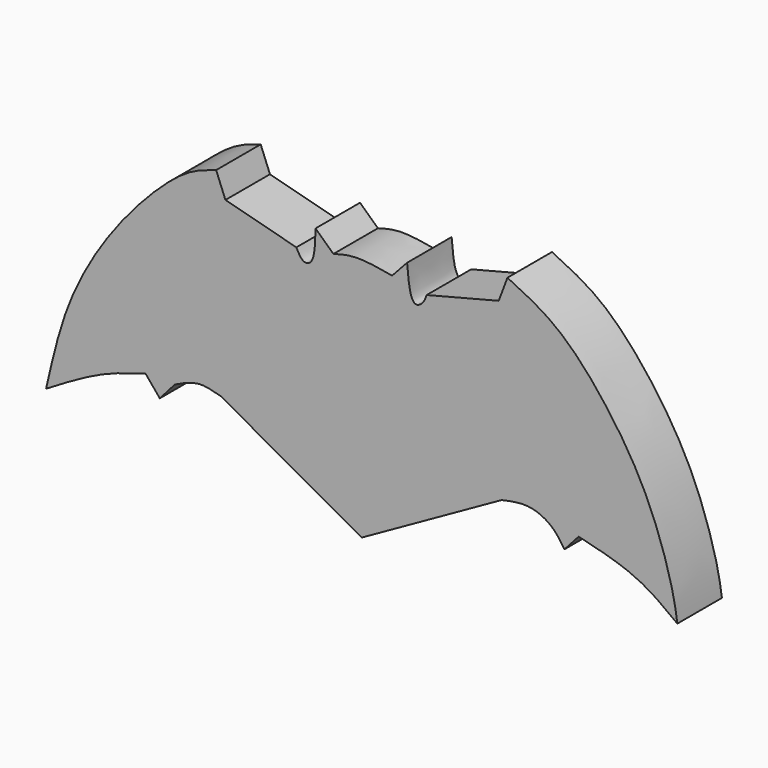
from build123d import *

# Parameters (mm, degrees)
F1_DEPTH = 25.4


with BuildPart() as f1:
    # F0 (on Front) → F1 (new body)
    with BuildSketch(Plane.XZ):
        with BuildLine():
            Line((-20.815545693, 49.3595898151), (-53.1777627766, 57.8688681126))
            Line((-53.1777627766, 57.8688681126), (-57.4047081172, 68.4945508838))
            add(Edge.make_bspline(
                [(-57.4047081172, 68.4945508838), (-61.6079530117, 67.2229645301), (-71.6578912609, 64.1826076978), (-92.1792885725, 44.7851508292), (-110.301965531, 21.8793904443), (-126.7145139576, -8.0894390434), (-132.1943043373, -32.1933513963), (-135.01124084, -44.5841886103)],
                knots=[0, 0, 0, 0, 0.1425301918, 0.3407890005, 0.5481724762, 0.7677339175, 1, 1, 1, 1], degree=3))
            add(Edge.make_bspline(
                [(-89.5904302597, -23.784969002), (-96.1833719104, -25.6691557455), (-110.4590157288, -29.7489702293), (-126.421002158, -39.3936991042), (-135.01124084, -44.5841886103)],
                knots=[0, 0, 0, 0, 0.4618314757, 1, 1, 1, 1], degree=3))
            Line((-89.5904302597, -23.784969002), (-83.1309109926, -31.5743908286))
            Line((-83.1309109926, -31.5743908286), (-76.2914195657, -23.784969002))
            add(Edge.make_bspline(
                [(-55.202987045, -21.6951239854), (-58.5396177202, -20.7007646687), (-65.440726562, -18.6441445208), (-72.5957780051, -22.0340536824), (-76.2914195657, -23.784969002)],
                knots=[0, 0, 0, 0, 0.4834919651, 1, 1, 1, 1], degree=3))
            Line((-55.202987045, -21.6951239854), (9.0186872653, -57.5316362083))
            Line((9.0186872653, -57.5316362083), (72.8474880258, -21.6951239854))
            add(Edge.make_bspline(
                [(101.5353575349, -32.1443490684), (99.835910795, -29.5868548997), (96.2709556495, -24.2219606773), (85.3163759816, -18.980809835), (77.083438202, -20.7730129243), (72.8474880258, -21.6951239854)],
                knots=[0, 0, 0, 0, 0.3066489558, 0.6432621555, 1, 1, 1, 1], degree=3))
            add(Edge.make_bspline(
                [(107.994876802, -24.924883619), (105.8417037129, -27.3313721021), (103.6885306239, -29.7378605853), (101.5353575349, -32.1443490684)],
                knots=[0, 0, 0, 0, 9.6874181564, 9.6874181564, 9.6874181564, 9.6874181564], degree=3))
            add(Edge.make_bspline(
                [(153.0486153705, -45.2533699572), (147.2316152087, -40.8197574615), (134.9323347833, -31.4454679883), (117.292088845, -27.1754024158), (107.994876802, -24.924883619)],
                knots=[0, 0, 0, 0, 0.4729545112, 1, 1, 1, 1], degree=3))
            add(Edge.make_bspline(
                [(75.5072906613, 68.4945508838), (82.8254690921, 65.0080610519), (98.574937789, 57.5047782353), (121.1760055311, 32.3431274634), (140.493962508, 1.7258052263), (150.9567116204, -30.9458687306), (152.4619125289, -41.240636759), (153.0486153705, -45.2533699572)],
                knots=[0, 0, 0, 0, 0.1891424034, 0.4070538031, 0.6398622043, 0.8596241426, 1, 1, 1, 1], degree=3))
            add(Edge.make_bspline(
                [(71.5175867081, 57.9089559615), (72.8474880258, 61.4374876022), (74.1773893436, 64.966019243), (75.5072906613, 68.4945508838)],
                knots=[0, 0, 0, 0, 11.3124956351, 11.3124956351, 11.3124956351, 11.3124956351], degree=3))
            add(Edge.make_bspline(
                [(38.6500321329, 49.5495758951), (49.6058836579, 52.3360359172), (60.561735183, 55.1224959393), (71.5175867081, 57.9089559615)],
                knots=[0, 0, 0, 0, 33.9139407744, 33.9139407744, 33.9139407744, 33.9139407744], degree=3))
            add(Edge.make_bspline(
                [(29.720697552, 59.6188269556), (30.1050722998, 55.0802867888), (30.7075495656, 47.9664810945), (33.3391893095, 43.2444311297), (37.2768121486, 45.6127340717), (38.1755963687, 48.1894307032), (38.6500321329, 49.5495758951)],
                knots=[0, 0, 0, 0, 0.3728940398, 0.5844821565, 0.7806631211, 1, 1, 1, 1], degree=3))
            Line((29.720697552, 59.6188269556), (22.8812042624, 52.2093810141))
            add(Edge.make_bspline(
                [(-3.9068027399, 52.2093810141), (-0.7679082887, 53.0897658536), (6.3932925075, 55.0983114454), (16.951093857, 53.2484256588), (22.8812042624, 52.2093810141)],
                knots=[0, 0, 0, 0, 0.4383195697, 1, 1, 1, 1], degree=3))
            add(Edge.make_bspline(
                [(-12.0761953294, 59.8088130355), (-9.3530644663, 57.2756690284), (-6.6299336031, 54.7425250212), (-3.9068027399, 52.2093810141)],
                knots=[0, 0, 0, 0, 11.1575240232, 11.1575240232, 11.1575240232, 11.1575240232], degree=3))
            add(Edge.make_bspline(
                [(-20.815545693, 49.3595898151), (-19.7981548754, 47.3960055313), (-17.9988487101, 43.9233092513), (-12.4166561732, 45.2306671865), (-12.2131091314, 53.9463198599), (-12.0761953294, 59.8088130355)],
                knots=[0, 0, 0, 0, 0.2987110109, 0.528285251, 1, 1, 1, 1], degree=3))
        make_face()
    extrude(amount=F1_DEPTH)


solid = f1.part
